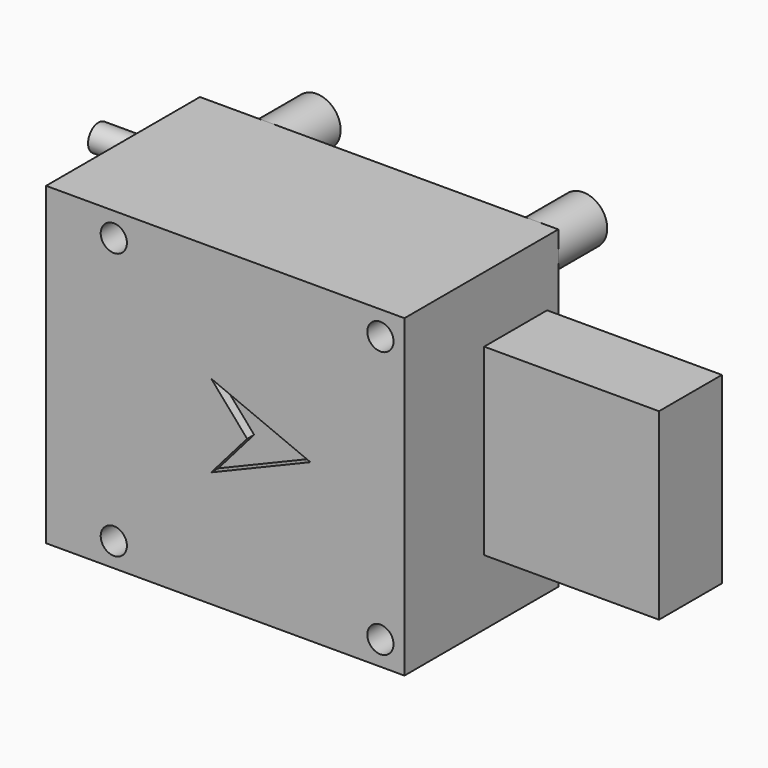
from build123d import *

# Parameters (mm, degrees)
SKETCH040_W     = 41
SKETCH040_H     = 36
SKETCH040_R     = 1.5
PAD014_DEPTH    = 22
SKETCH041_R     = 2.75
PAD015_DEPTH    = 7
SKETCH042_W     = 21
SKETCH042_H     = 9
PAD016_DEPTH    = 20
SKETCH043_R     = 1.5
PAD017_DEPTH    = 10
POCKET016_DEPTH = 1


with BuildPart() as part:
    # Sketch040 → Pad014 (new body)
    with BuildSketch(Plane.XZ):
        with Locations((-2.5, 0)):
            Rectangle(SKETCH040_W, SKETCH040_H)
        with Locations((15.25, 15.25)):
            Circle(SKETCH040_R, mode=Mode.SUBTRACT)
        with Locations((15.25, -15.25)):
            Circle(SKETCH040_R, mode=Mode.SUBTRACT)
        with Locations((-15.25, -15.25)):
            Circle(SKETCH040_R, mode=Mode.SUBTRACT)
        with Locations((-15.25, 15.25)):
            Circle(SKETCH040_R, mode=Mode.SUBTRACT)
    extrude(amount=PAD014_DEPTH)

    # Sketch041 (on Face9 of Pad014) → Pad015 (join)
    with BuildSketch(Plane(origin=(0, 0, 0), x_dir=(1, 0, 0), z_dir=(0, 1, 0))):
        with Locations((15.25, 15.25)):
            Circle(SKETCH041_R)
        with Locations((15.25, -15.25)):
            Circle(SKETCH041_R)
        with Locations((-15.25, -15.25)):
            Circle(SKETCH041_R)
        with Locations((-15.25, 15.25)):
            Circle(SKETCH041_R)
    extrude(amount=PAD015_DEPTH)

    # Sketch042 (on Face3 of Pad015) → Pad016 (join)
    with BuildSketch(Plane(origin=(18, 0, 0), x_dir=(0, 0, 1), z_dir=(1, 0, 0))):
        with Locations((0, 6.1)):
            Rectangle(SKETCH042_W, SKETCH042_H)
    extrude(amount=PAD016_DEPTH)

    # Sketch043 (on Face2 of Pad016) → Pad017 (join)
    with BuildSketch(Plane(origin=(-23, 0, 0), x_dir=(0, 0, -1), z_dir=(-1, 0, 0))):
        with Locations((-11.5, 2)):
            Circle(SKETCH043_R)
        with Locations((-7.5, 2)):
            Circle(SKETCH043_R)
        with Locations((7.5, 2)):
            Circle(SKETCH043_R)
        with Locations((11.5, 2)):
            Circle(SKETCH043_R)
    extrude(amount=PAD017_DEPTH)

    # Sketch044 (on Face6 of Pad017) → Pocket016 (cut)
    with BuildSketch(Plane.XZ.offset(22)):
        Polygon((-4.106884, -4.719943), (7.24077, 0), (-4.106884, 4.719943), (0, 0), align=None)
    extrude(amount=-POCKET016_DEPTH, mode=Mode.SUBTRACT)


solid = part.part
